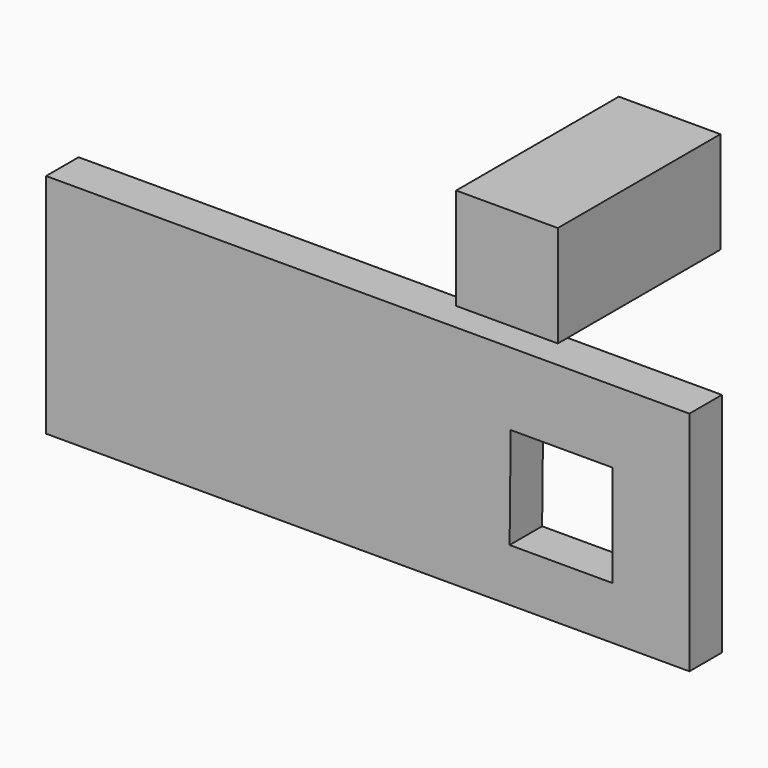
from build123d import *

# Parameters (mm, degrees)
F0_W     = 80.398395
F0_H     = 28.353058
F1_DEPTH = 5.08
F3_DEPTH = 5.08
F4_W     = 12.7
F4_H     = 12.7
F5_DEPTH = 25.4


with BuildPart() as f1:
    # F0 (on Front) → F1 (new body)
    with BuildSketch(Plane.XZ):
        with Locations((8.738953, 14.176529)):
            Rectangle(F0_W, F0_H)
    extrude(amount=F1_DEPTH)

    # F2 (on face) → F3 (cut)
    with BuildSketch(Plane.XZ.offset(5.08)):
        Polygon((26.603637, 19.290227), (26.467522, 6.590957), (39.303637, 6.590957), (39.303637, 19.290227), align=None)
    extrude(amount=-F3_DEPTH, mode=Mode.SUBTRACT)


with BuildPart() as f5:
    # F4 (on Front) → F5 (new body)
    with BuildSketch(Plane.XZ):
        with Locations((42.39915, 50.622063)):
            Rectangle(F4_W, F4_H)
    extrude(amount=F5_DEPTH)


solid = Compound([f1.part, f5.part])
